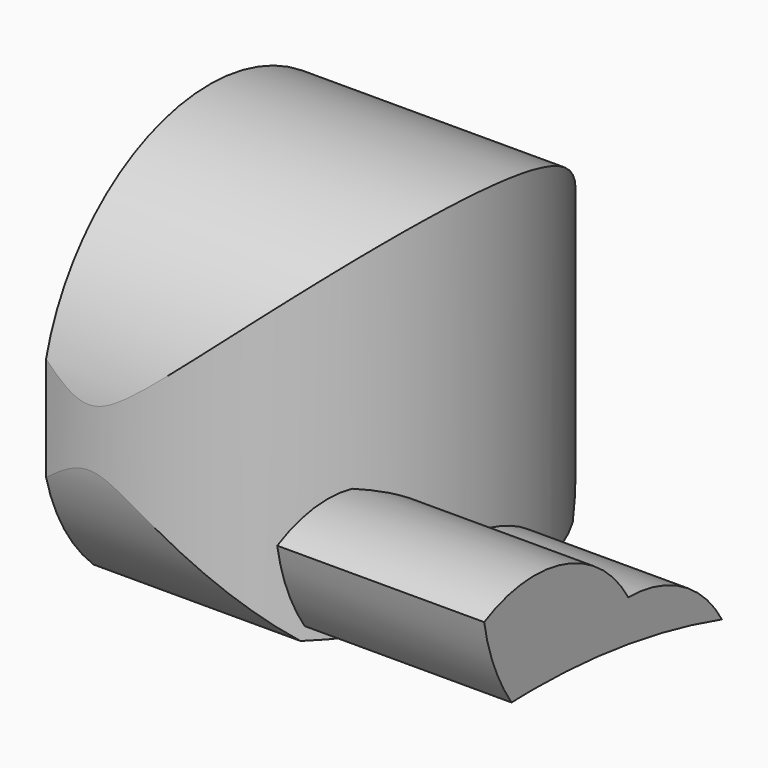
from build123d import *

# Parameters (mm, degrees)
F0_W     = 100
F0_H     = 100
F2_DEPTH = 52
F4_DEPTH = 50
F5_R     = 50
F6_DEPTH = 100
F7_R     = 45
F8_DEPTH = 100


with BuildPart() as f2:
    # F0 (on Top) → F2 (new body)
    with BuildSketch(Plane.XY):
        Rectangle(F0_W, F0_H)
    extrude(amount=F2_DEPTH)

    # F3 (on offset) → F4 (intersect)
    with BuildSketch(Plane.YZ.offset(55.802872)):
        with BuildLine():
            ThreePointArc((25, 14.303062), (0, 28.606123), (-25, 14.303062))
            ThreePointArc((-25, 14.303062), (-39.401194, 10.474585), (-50, 0))
            ThreePointArc((-50, 0), (-25.265238, 5.467368), (0, 7.302669))
            ThreePointArc((0, 7.302669), (25.265238, 5.467368), (50, 0))
            ThreePointArc((50, 0), (39.401194, 10.474585), (25, 14.303062))
        make_face()
    extrude(amount=-F4_DEPTH, mode=Mode.INTERSECT)

    # F5 (on Top) → F6 (join)
    with BuildSketch(Plane.XY):
        with Locations((-34.342921, 36.339563)):
            Circle(F5_R)
    extrude(amount=F6_DEPTH)

    # F7 (on offset) → F8 (intersect)
    with BuildSketch(Plane.YZ.offset(55.802872)):
        with Locations((30.916278, 32.698375)):
            Circle(F7_R)
    extrude(amount=-F8_DEPTH, mode=Mode.INTERSECT)


solid = f2.part
